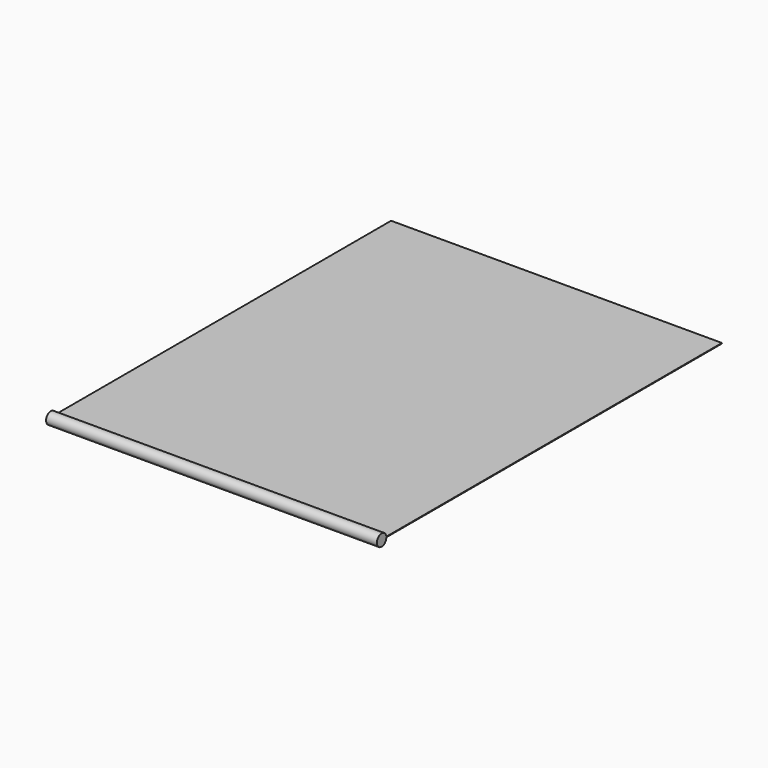
from build123d import *

# Parameters (mm, degrees)
F0_W     = 2800
F0_H     = 3600
F1_DEPTH = 5
F2_R     = 50
F3_DEPTH = 1400


with BuildPart() as f1:
    # F0 (on Top) → F1 (new body)
    with BuildSketch(Plane.XY):
        with Locations((0, 1800)):
            Rectangle(F0_W, F0_H)
    extrude(amount=F1_DEPTH)

    # F2 (on Right) → F3 (join, symmetric)
    with BuildSketch(Plane.YZ):
        Circle(F2_R)
    extrude(amount=F3_DEPTH, both=True)


solid = f1.part
